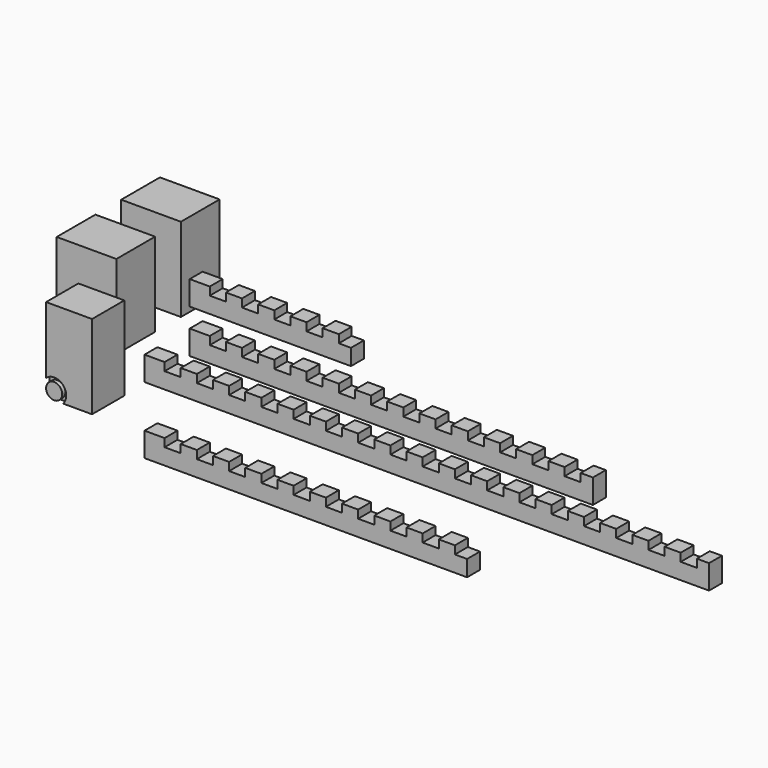
from build123d import *

# Parameters (mm, degrees)
F0_W      = 74
F0_H      = 60
F1_DEPTH  = 104
F0_W_2    = 57
F0_H_2    = 50
F3_DEPTH  = 5
F4_DEPTH  = 5
F6_DEPTH  = 5
F7_DEPTH  = 5
F9_DEPTH  = 5
F10_DEPTH = 5
F12_DEPTH = 5
F13_DEPTH = 5
F17_W     = 700
F17_H     = 20
F18_DEPTH = 30
F19_W     = 20
F19_H     = 10
F20_DEPTH = 25
F22_W     = 20
F22_H     = 30
F23_DEPTH = 200
F26_W     = 20
F26_H     = 30
F27_DEPTH = 300
F28_W     = 20
F28_H     = 30
F29_DEPTH = 300


with BuildPart() as f1:
    # F0 (on Top) → F1 (new body)
    with BuildSketch(Plane.XY):
        with Locations((-94.746558033, 58.5875439719)):
            Rectangle(F0_W, F0_H)
    extrude(amount=F1_DEPTH)

    # F2 (on face) → F3 (join)
    with BuildSketch(Plane.XZ.offset(-28.5875439719)):
        with BuildLine():
            ThreePointArc((-121.746558033, 0), (-114.6754902211, 2.9289321881), (-111.746558033, 10))
            ThreePointArc((-111.746558033, 10), (-121.746558033, 20), (-131.746558033, 10))
            ThreePointArc((-131.746558033, 10), (-128.8176258449, 2.9289321881), (-121.746558033, 0))
        make_face()
    extrude(amount=-F3_DEPTH)

    # F2 (on face) → F4 (cut)
    with BuildSketch(Plane.XZ.offset(-28.5875439719)):
        with BuildLine():
            ThreePointArc((-131.746558033, 10), (-121.746558033, 20), (-111.746558033, 10))
            ThreePointArc((-111.746558033, 10), (-114.6754902211, 2.9289321881), (-121.746558033, 0))
            Line((-121.746558033, 0), (-110.5662181455, 0))
            ThreePointArc((-110.5662181455, 0), (-107.7339726486, 4.6476686534), (-106.746558033, 10))
            ThreePointArc((-106.746558033, 10), (-115.6228336761, 23.6930639376), (-131.746558033, 21.1803398875))
            Line((-131.746558033, 21.1803398875), (-131.746558033, 10))
        make_face()
        with BuildLine():
            Line((-131.746558033, 0), (-131.746558033, 10))
            Line((-131.746558033, 10), (-131.746558033, 21.1803398875))
            ThreePointArc((-131.746558033, 21.1803398875), (-132.3531597508, -0.6066017178), (-110.5662181455, 0))
            Line((-110.5662181455, 0), (-121.746558033, 0))
            Line((-121.746558033, 0), (-131.746558033, 0))
        make_face()
        with BuildLine():
            ThreePointArc((-121.746558033, 0), (-128.8176258449, 2.9289321881), (-131.746558033, 10))
            Line((-131.746558033, 10), (-131.746558033, 0))
            Line((-131.746558033, 0), (-121.746558033, 0))
        make_face()
    extrude(amount=-F4_DEPTH, mode=Mode.SUBTRACT)

    # F5 (on face) → F6 (join)
    with BuildSketch(Plane(origin=(0, 88.5875439719, 0), x_dir=(-1, 0, 0), z_dir=(0, 1, 0))):
        with BuildLine():
            ThreePointArc((121.746558033, 0), (128.8176258449, 2.9289321881), (131.746558033, 10))
            ThreePointArc((131.746558033, 10), (114.6754902211, 17.0710678119), (121.746558033, 0))
        make_face()
    extrude(amount=-F6_DEPTH)

    # F5 (on face) → F7 (cut)
    with BuildSketch(Plane(origin=(0, 88.5875439719, 0), x_dir=(-1, 0, 0), z_dir=(0, 1, 0))):
        with BuildLine():
            Line((131.746558033, 21.1803398875), (131.746558033, 10))
            Line((131.746558033, 10), (131.746558033, 0))
            Line((131.746558033, 0), (121.746558033, 0))
            Line((121.746558033, 0), (110.5662181455, 0))
            ThreePointArc((110.5662181455, 0), (127.0988893796, -4.0125853844), (136.746558033, 10))
            ThreePointArc((136.746558033, 10), (135.4396219706, 16.123724357), (131.746558033, 21.1803398875))
        make_face()
        with BuildLine():
            ThreePointArc((121.746558033, 0), (114.6754902211, 17.0710678119), (131.746558033, 10))
            Line((131.746558033, 10), (131.746558033, 21.1803398875))
            ThreePointArc((131.746558033, 21.1803398875), (111.1399563152, 20.6066017178), (110.5662181455, 0))
            Line((110.5662181455, 0), (121.746558033, 0))
        make_face()
        with BuildLine():
            Line((131.746558033, 0), (131.746558033, 10))
            ThreePointArc((131.746558033, 10), (128.8176258449, 2.9289321881), (121.746558033, 0))
            Line((121.746558033, 0), (131.746558033, 0))
        make_face()
    extrude(amount=-F7_DEPTH, mode=Mode.SUBTRACT)


with BuildPart() as f1b:
    # F0 (on Top) → F1, piece 2 (new body)
    with BuildSketch(Plane.XY):
        with Locations((-25.9938186294, -59.4453978635)):
            Rectangle(F0_W_2, F0_H_2)
    extrude(amount=F1_DEPTH)

    # F8 (on face) → F9 (join)
    with BuildSketch(Plane.XZ.offset(84.4453978635)):
        with BuildLine():
            ThreePointArc((-44.4938186294, 0), (-37.4227508176, 2.9289321881), (-34.4938186294, 10))
            ThreePointArc((-34.4938186294, 10), (-44.4938185939, 20), (-54.4938186294, 10.000000071))
            ThreePointArc((-54.4938186294, 10.000000071), (-51.5648864664, 2.9289322132), (-44.4938186294, 0))
        make_face()
    extrude(amount=-F9_DEPTH)

    # F8 (on face) → F10 (cut)
    with BuildSketch(Plane.XZ.offset(84.4453978635)):
        with BuildLine():
            ThreePointArc((-54.4938186294, 10.000000071), (-44.4938185939, 20), (-34.4938186294, 10))
            ThreePointArc((-34.4938186294, 10), (-37.4227508176, 2.9289321881), (-44.4938186294, 0))
            Line((-44.4938186294, 0), (-33.3134787419, 0))
            ThreePointArc((-33.3134787419, 0), (-30.481233245, 4.6476686534), (-29.4938186294, 10))
            ThreePointArc((-29.4938186294, 10), (-38.3700942725, 23.6930639376), (-54.4938186294, 21.1803398875))
            Line((-54.4938186294, 21.1803398875), (-54.4938186294, 10.000000071))
        make_face()
        with BuildLine():
            Line((-54.4938186294, 0), (-54.4938186294, 10.000000071))
            Line((-54.4938186294, 10.000000071), (-54.4938186294, 21.1803398875))
            ThreePointArc((-54.4938186294, 21.1803398875), (-55.1004203472, -0.6066017178), (-33.3134787419, 0))
            Line((-33.3134787419, 0), (-44.4938186294, 0))
            Line((-44.4938186294, 0), (-54.4938186294, 0))
        make_face()
        with BuildLine():
            ThreePointArc((-44.4938186294, 0), (-51.5648864664, 2.9289322132), (-54.4938186294, 10.000000071))
            Line((-54.4938186294, 10.000000071), (-54.4938186294, 0))
            Line((-54.4938186294, 0), (-44.4938186294, 0))
        make_face()
    extrude(amount=-F10_DEPTH, mode=Mode.SUBTRACT)

    # F11 (on face) → F12 (join)
    with BuildSketch(Plane(origin=(0, -34.4453978635, 0), x_dir=(-1, 0, 0), z_dir=(0, 1, 0))):
        with BuildLine():
            ThreePointArc((44.4938186294, 0), (51.5648864413, 2.9289321881), (54.4938186294, 10))
            ThreePointArc((54.4938186294, 10), (37.4227508176, 17.0710678119), (44.4938186294, 0))
        make_face()
    extrude(amount=-F12_DEPTH)

    # F11 (on face) → F13 (cut)
    with BuildSketch(Plane(origin=(0, -34.4453978635, 0), x_dir=(-1, 0, 0), z_dir=(0, 1, 0))):
        with BuildLine():
            ThreePointArc((44.4938186294, 0), (37.4227508176, 17.0710678119), (54.4938186294, 10))
            Line((54.4938186294, 10), (54.4938186294, 21.1803398875))
            ThreePointArc((54.4938186294, 21.1803398875), (33.8872169116, 20.6066017178), (33.3134787419, 0))
            Line((33.3134787419, 0), (44.4938186294, 0))
        make_face()
        with BuildLine():
            Line((54.4938186294, 0), (54.4938186294, 10))
            ThreePointArc((54.4938186294, 10), (51.5648864413, 2.9289321881), (44.4938186294, 0))
            Line((44.4938186294, 0), (54.4938186294, 0))
        make_face()
    extrude(amount=-F13_DEPTH, mode=Mode.SUBTRACT)


with BuildPart() as f14_1:
    # F14: copy of F1
    add(f1.part)


with BuildPart() as f16_1:
    # F16: copy of F1
    add(f1.part.moved(Location((0, 100, 0))))


with BuildPart() as f18:
    # F17 (on Top) → F18 (new body)
    with BuildSketch(Plane.XY):
        with Locations((350, 10)):
            Rectangle(F17_W, F17_H)
    extrude(amount=F18_DEPTH)

    # F19 (on face) → F20 (cut)
    with BuildSketch(Plane(origin=(0, 20, 0), x_dir=(-1, 0, 0), z_dir=(0, 1, 0))):
        with Locations((-674.9069595337, 25)):
            Rectangle(F19_W, F19_H)
        with Locations((-634.9069595337, 25)):
            Rectangle(F19_W, F19_H)
        with Locations((-594.9069595337, 25)):
            Rectangle(F19_W, F19_H)
        with Locations((-554.9069595337, 25)):
            Rectangle(F19_W, F19_H)
        with Locations((-514.9069595337, 25)):
            Rectangle(F19_W, F19_H)
        with Locations((-474.9069595337, 25)):
            Rectangle(F19_W, F19_H)
        with Locations((-434.9069595337, 25)):
            Rectangle(F19_W, F19_H)
        with Locations((-394.9069595337, 25)):
            Rectangle(F19_W, F19_H)
        with Locations((-354.9069595337, 25)):
            Rectangle(F19_W, F19_H)
        with Locations((-314.9069595337, 25)):
            Rectangle(F19_W, F19_H)
        with Locations((-274.9069595337, 25)):
            Rectangle(F19_W, F19_H)
        with Locations((-234.9069595337, 25)):
            Rectangle(F19_W, F19_H)
        with Locations((-194.9069595337, 25)):
            Rectangle(F19_W, F19_H)
        with Locations((-154.9069595337, 25)):
            Rectangle(F19_W, F19_H)
        with Locations((-114.9069595337, 25)):
            Rectangle(F19_W, F19_H)
        with Locations((-74.9069595337, 25)):
            Rectangle(F19_W, F19_H)
        with Locations((-34.9069595337, 25)):
            Rectangle(F19_W, F19_H)
    extrude(amount=-F20_DEPTH, mode=Mode.SUBTRACT)


with BuildPart() as f21_1:
    # F21: copy of F18
    add(f18.part.moved(Location((0, 70, 0))))

    # F22 (on face) → F23 (cut)
    with BuildSketch(Plane.YZ.offset(700)):
        with Locations((80, 15)):
            Rectangle(F22_W, F22_H)
    extrude(amount=-F23_DEPTH, mode=Mode.SUBTRACT)


with BuildPart() as f24_1:
    # F24: copy of F18
    add(f18.part.moved(Location((0, 0, -83))))

    # F28 (on face) → F29 (cut)
    with BuildSketch(Plane.YZ.offset(700)):
        with Locations((10, -68)):
            Rectangle(F28_W, F28_H)
    extrude(amount=-F29_DEPTH, mode=Mode.SUBTRACT)


with BuildPart() as f25_1:
    # F25: copy of F21_1
    add(f21_1.part.moved(Location((0, 0, 54))))

    # F26 (on face) → F27 (cut)
    with BuildSketch(Plane.YZ.offset(500)):
        with Locations((80, 69)):
            Rectangle(F26_W, F26_H)
    extrude(amount=-F27_DEPTH, mode=Mode.SUBTRACT)


solid = Compound([f1.part, f1b.part, f16_1.part, f18.part, f21_1.part, f24_1.part, f25_1.part])
